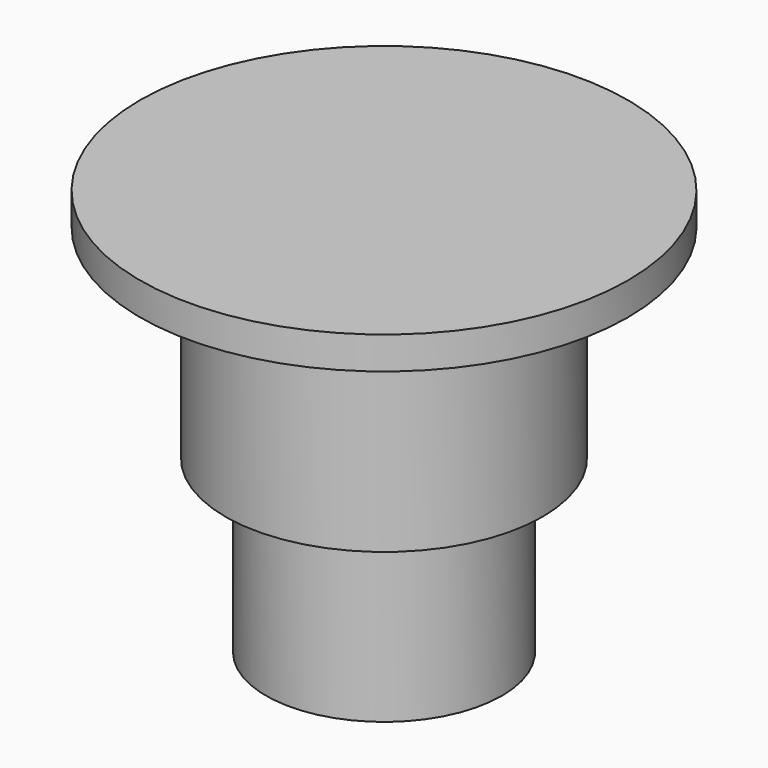
from build123d import *

# Parameters (mm, degrees)
F0_R     = 3
F1_DEPTH = 0.4
F2_R     = 1.95
F3_DEPTH = 2.5
F4_R     = 1.45
F5_DEPTH = 2.1
F6_R     = 0.75
F7_DEPTH = 2


with BuildPart() as f1:
    # F0 (on Top) → F1 (new body)
    with BuildSketch(Plane.XY):
        Circle(F0_R)
    extrude(amount=F1_DEPTH)

    # F2 (on face) → F3 (join)
    with BuildSketch(Plane(origin=(0, 0, 0), x_dir=(1, 0, 0), z_dir=(0, 0, -1))):
        Circle(F2_R)
    extrude(amount=F3_DEPTH)

    # F4 (on face) → F5 (join)
    with BuildSketch(Plane(origin=(0, 0, -2.5), x_dir=(1, 0, 0), z_dir=(0, 0, -1))):
        Circle(F4_R)
    extrude(amount=F5_DEPTH)

    # F6 (on face) → F7 (cut)
    with BuildSketch(Plane(origin=(0, 0, -4.6), x_dir=(1, 0, 0), z_dir=(0, 0, -1))):
        Circle(F6_R)
    extrude(amount=-F7_DEPTH, mode=Mode.SUBTRACT)


solid = f1.part
